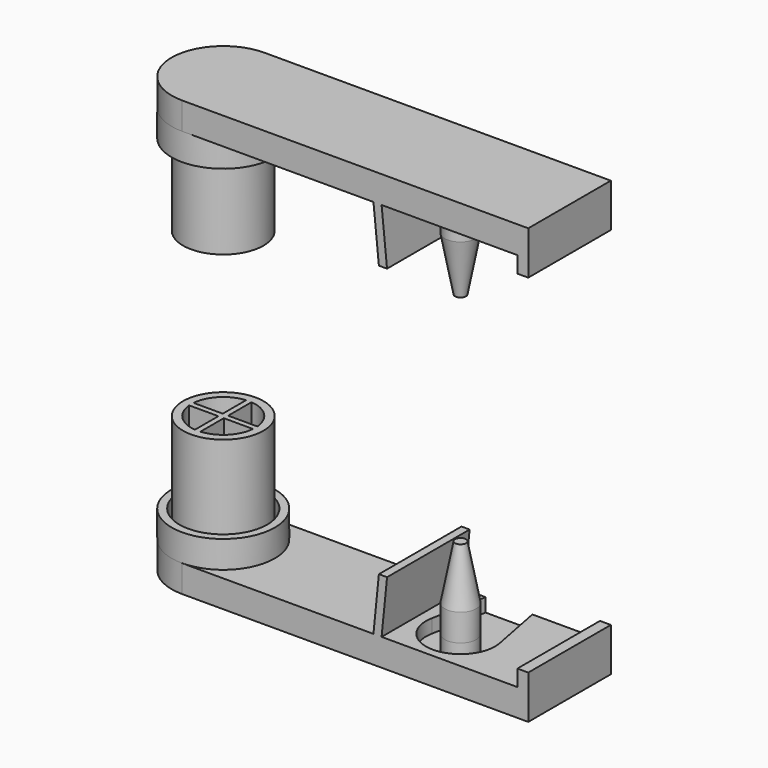
from build123d import *

# Parameters (mm, degrees)
F1_R      = 7.4
F2_DEPTH  = 20
F3_R      = 9.5
F3_R_2    = 8.075
F4_DEPTH  = 5
F6_DEPTH  = 3
F10_DEPTH = 5
F11_W     = 2
F11_H     = 3
F12_DEPTH = 9.5
F13_R     = 2.9
F14_DEPTH = 2.5


with BuildPart() as f2:
    # F1 (on Top) → F2 (new body)
    with BuildSketch(Plane.XY):
        Circle(F1_R)
        with BuildLine():
            ThreePointArc((-0.5, -5.8787753827), (-4.171930009, -4.171930009), (-5.8787753827, -0.5))
            Line((-5.8787753827, -0.5), (-0.5, -0.5))
            Line((-0.5, -0.5), (-0.5, -5.8787753827))
        make_face(mode=Mode.SUBTRACT)
        with BuildLine():
            ThreePointArc((5.8787753827, -0.5), (4.171930009, -4.171930009), (0.5, -5.8787753827))
            Line((0.5, -5.8787753827), (0.5, -0.5))
            Line((0.5, -0.5), (5.8787753827, -0.5))
        make_face(mode=Mode.SUBTRACT)
        with BuildLine():
            ThreePointArc((-5.8787753827, 0.5), (-4.171930009, 4.171930009), (-0.5, 5.8787753827))
            Line((-0.5, 5.8787753827), (-0.5, 0.5))
            Line((-0.5, 0.5), (-5.8787753827, 0.5))
        make_face(mode=Mode.SUBTRACT)
        with BuildLine():
            Line((0.5, 0.5), (0.5, 5.8787753827))
            ThreePointArc((0.5, 5.8787753827), (4.171930009, 4.171930009), (5.8787753827, 0.5))
            Line((5.8787753827, 0.5), (0.5, 0.5))
        make_face(mode=Mode.SUBTRACT)
    extrude(amount=F2_DEPTH)

    # F5 (on Top) → F6 (cut)
    with BuildSketch(Plane.XY):
        with BuildLine():
            Line((0, 2.1213203436), (-4.063303138, 6.1846234816))
            ThreePointArc((-4.063303138, 6.1846234816), (-5.2325901808, 5.2325901808), (-6.1846234816, 4.063303138))
            Line((-6.1846234816, 4.063303138), (-2.1213203436, 0))
            Line((-2.1213203436, 0), (-6.1846234816, -4.063303138))
            ThreePointArc((-6.1846234816, -4.063303138), (-5.2325901808, -5.2325901808), (-4.063303138, -6.1846234816))
            Line((-4.063303138, -6.1846234816), (0, -2.1213203436))
            Line((0, -2.1213203436), (4.063303138, -6.1846234816))
            ThreePointArc((4.063303138, -6.1846234816), (5.2325901808, -5.2325901808), (6.1846234816, -4.063303138))
            Line((6.1846234816, -4.063303138), (2.1213203436, 0))
            Line((2.1213203436, 0), (6.1846234816, 4.063303138))
            ThreePointArc((6.1846234816, 4.063303138), (5.2325901808, 5.2325901808), (4.063303138, 6.1846234816))
            Line((4.063303138, 6.1846234816), (0, 2.1213203436))
        make_face()
    extrude(amount=F6_DEPTH, mode=Mode.SUBTRACT)



with BuildPart() as f4:
    # F3 (on Top) → F4 (new body)
    with BuildSketch(Plane.XY):
        Circle(F3_R)
        Circle(F3_R_2, mode=Mode.SUBTRACT)
    extrude(amount=F4_DEPTH)


with BuildPart() as f8:
    # F7 (on offset) → F8 (revolve)
    with BuildSketch(Plane.XZ.offset(1.65)):
        Polygon((46, 15), (45, 15), (45, 0), (47.9, 0), (47.9, 5), align=None)
    revolve(axis=Axis((45, -1.65, 7.5), (0, 0, 1)))


with BuildPart() as f2_1:
    add(f2.part)

    add(f4.part)  # F10 merges F4

    add(f8.part)  # F10 merges F8
    # F9 (on Top) → F10 (join)
    with BuildSketch(Plane.XY):
        with BuildLine():
            Line((63.75, 9.5), (0, 9.5))
            ThreePointArc((0, 9.5), (-9.5, 0), (0, -9.5))
            Line((0, -9.5), (63.75, -9.5))
            Line((63.75, -9.5), (63.75, 9.5))
        make_face()
    extrude(amount=-F10_DEPTH)

    # F11 (on Front) → F12 (join, symmetric)
    with BuildSketch(Plane.XZ):
        with Locations((62.75, 1.5)):
            Rectangle(F11_W, F11_H)
        Polygon((35.25, 0), (36.75, 0), (37.75, 10), (36.25, 10), align=None)
    extrude(amount=F12_DEPTH, both=True)

    # F13 (on Top) → F14 (cut)
    with BuildSketch(Plane.XY):
        with BuildLine():
            Line((51.2339806081, -0.4417003717), (48.9269169818, 11.4611336364))
            ThreePointArc((48.9269169818, 11.4611336364), (45, 14.7000001743), (41.0730830182, 11.4611336364))
            Line((41.0730830182, 11.4611336364), (38.7660193919, -0.4417003717))
            ThreePointArc((38.7660193919, -0.4417003717), (45, -8.0000001743), (51.2339806081, -0.4417003717))
        make_face()
        with Locations((45, -1.65)):
            Circle(F13_R, mode=Mode.SUBTRACT)
    extrude(amount=-F14_DEPTH, mode=Mode.SUBTRACT)


with BuildPart() as f16_1:
    # F16: instance of F2
    add(f2_1.part.mirror(Plane.XY.offset(35)))


solid = Compound([f2_1.part, f16_1.part])
